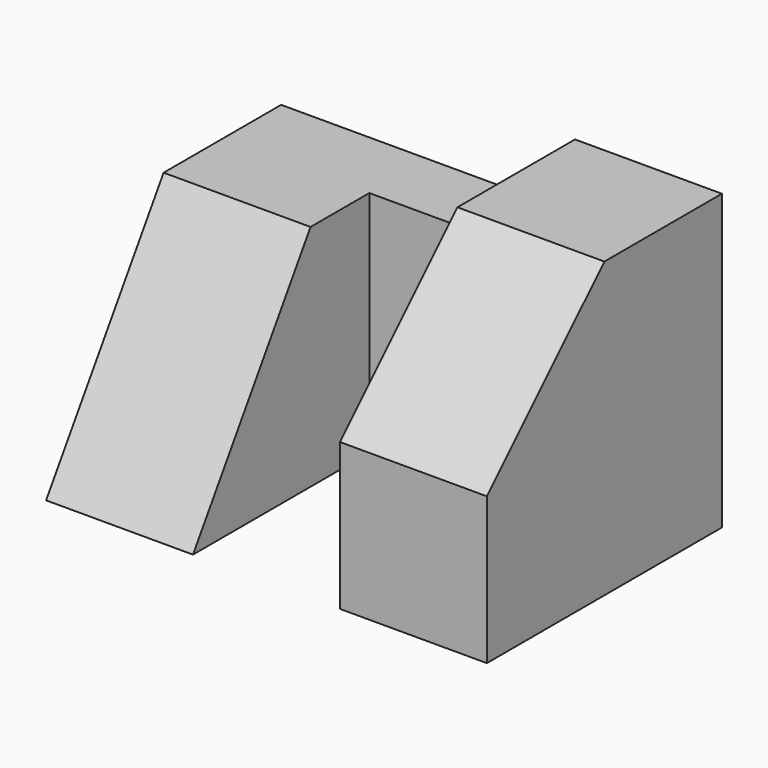
from build123d import *

# Parameters (mm, degrees)
F0_W     = 6.35
F0_H     = 19.7729410879
F1_DEPTH = 25.4
F2_START = -12.7
F2_DEPTH = 12.7
F3_DEPTH = 12.7


with BuildPart() as f1:
    # F0 (on Right) → F1 (new body)
    with BuildSketch(Plane.YZ):
        with Locations((3.5528081138, -2.7100717787)):
            Rectangle(F0_W, F0_H)
    extrude(amount=-F1_DEPTH)

    # F0 (on Right) → F2 (join)
    with BuildSketch(Plane.YZ.offset(F2_START)):
        Polygon((-5.9721918862, 7.1763987653), (-18.6721918862, -12.5965423226), (0.3778081138, -12.5965423226), (0.3778081138, 7.1763987653), align=None)
    extrude(amount=-F2_DEPTH)

    # F0 (on Right) → F3 (join)
    with BuildSketch(Plane.YZ):
        Polygon((-18.6721918862, 0.1034576774), (-18.6721918862, -12.5965423226), (-5.9721918862, 7.1763987653), (0.3778081138, 7.1763987653), (6.7278081138, 7.1763987653), (6.7278081138, 12.8034576774), (-5.9721918862, 12.8034576774), align=None)
        with Locations((3.5528081138, -2.7100717787)):
            Rectangle(F0_W, F0_H)
        Polygon((-5.9721918862, 7.1763987653), (-18.6721918862, -12.5965423226), (0.3778081138, -12.5965423226), (0.3778081138, 7.1763987653), align=None)
    extrude(amount=F3_DEPTH)


solid = f1.part
